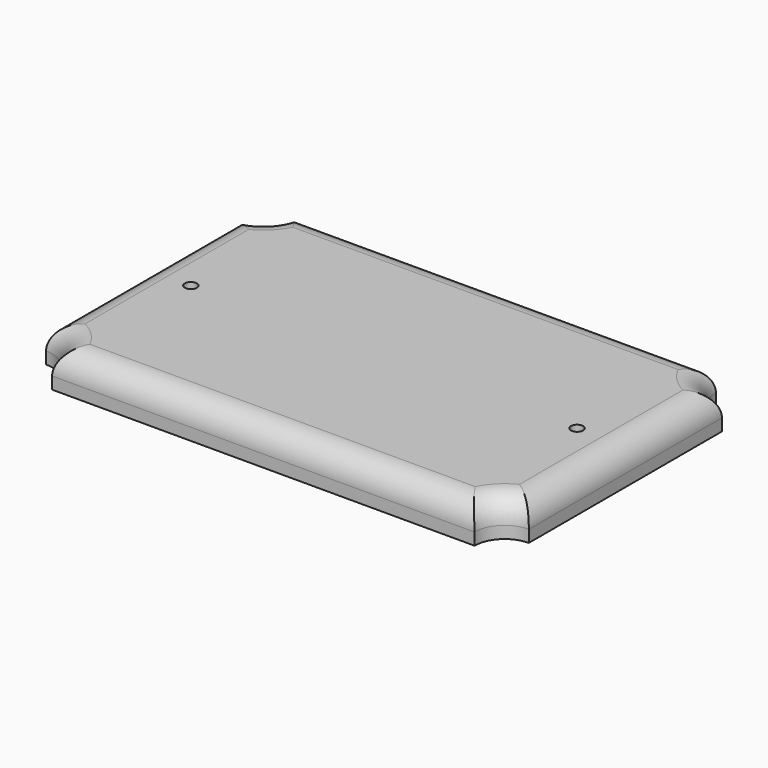
from build123d import *

# Parameters (mm, degrees)
F1_DEPTH = 7.62
F2_R     = 5.08
F3_R     = 1.27
F4_DEPTH = 25.4


with BuildPart() as f1:
    # F0 (on Top) → F1 (new body)
    with BuildSketch(Plane.XY):
        with BuildLine():
            Line((44.45, 31.75), (-44.45, 31.75))
            ThreePointArc((-44.45, 31.75), (-46.3098719395, 27.2598719395), (-50.8, 25.4))
            Line((-50.8, 25.4), (-50.8, -25.4))
            ThreePointArc((-50.8, -25.4), (-46.3098719395, -27.2598719395), (-44.45, -31.75))
            Line((-44.45, -31.75), (44.45, -31.75))
            ThreePointArc((44.45, -31.75), (46.3098719395, -27.2598719395), (50.8, -25.4))
            Line((50.8, -25.4), (50.8, 25.4))
            ThreePointArc((50.8, 25.4), (46.3098719395, 27.2598719395), (44.45, 31.75))
        make_face()
    extrude(amount=F1_DEPTH)

    # F2
    f2_edges = [f1.edges().sort_by_distance(p)[0] for p in [
        (0, 31.75, 7.62),
        (-50.8, 0, 7.62),
        (50.8, 0, 7.62),
        (0, -31.75, 7.62),
        (-46.309872, 27.259872, 7.62),
        (-46.309872, -27.259872, 7.62),
        (46.309872, -27.259872, 7.62),
        (46.309872, 27.259872, 7.62),
    ]]
    fillet(f2_edges, radius=F2_R)

    # F3 (on face) → F4 (cut)
    with BuildSketch(Plane.XY.offset(7.62)):
        with Locations((-40.64, 0)):
            Circle(F3_R)
        with Locations((40.64, 0)):
            Circle(F3_R)
    extrude(amount=-F4_DEPTH, mode=Mode.SUBTRACT)


solid = f1.part
